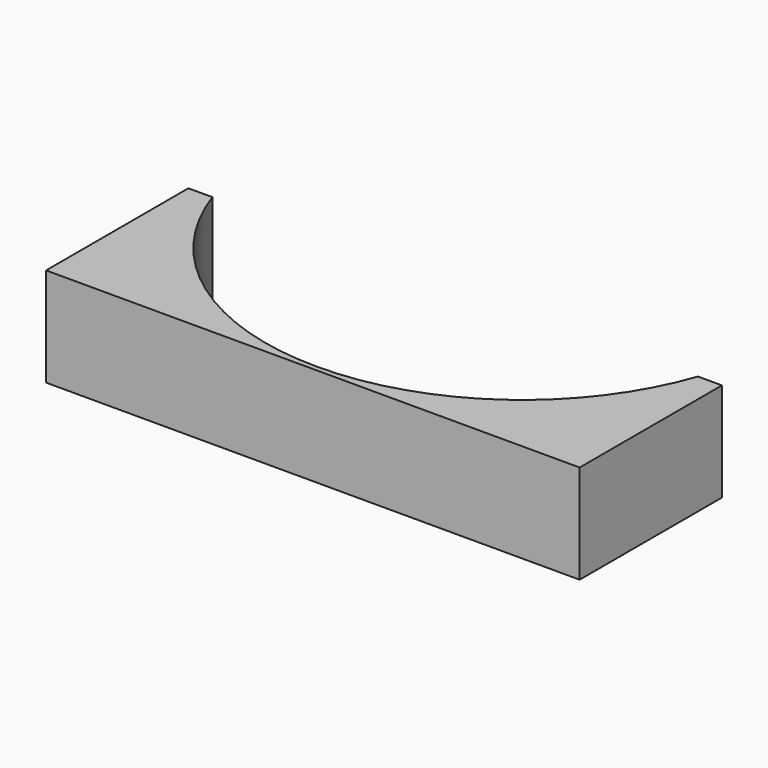
from build123d import *

# Parameters (mm, degrees)
CYLINDER131_R               = 1.5
CYLINDER131_DEPTH           = 4
CYLINDER129_R               = 1.5
CYLINDER129_DEPTH           = 100
BOX043_W                    = 2
BOX043_H                    = 6
BOX043_DEPTH                = 6
COMPOUND160_PLACEMENT_ANGLE = 90
CYLINDER127_R               = 1.5
CYLINDER127_DEPTH           = 4
CYLINDER130_R               = 1.5
CYLINDER130_DEPTH           = 100
BOX042_W                    = 2
BOX042_H                    = 6
BOX042_DEPTH                = 6
COMPOUND161_PLACEMENT_ANGLE = 90
CYLINDER128_R               = 52
CYLINDER128_DEPTH           = 20
BOX044_W                    = 108
BOX044_H                    = 36
BOX044_DEPTH                = 20


with BuildPart() as obj1:
    # Cylinder131 → Cylinder131 (new body)
    with BuildSketch(Plane(origin=(-4, 3, 3), x_dir=(0, 0, -1), z_dir=(1, 0, 0))):
        Circle(CYLINDER131_R)
    extrude(amount=CYLINDER131_DEPTH)


with BuildPart() as obj2:
    # Cylinder129 → Cylinder129 (new body)
    with BuildSketch(Plane(origin=(2, 3, 3), x_dir=(0, 0, -1), z_dir=(1, 0, 0))):
        Circle(CYLINDER129_R)
    extrude(amount=CYLINDER129_DEPTH)


with BuildPart() as compound160:
    # Box043 → Box043 (new body)
    with BuildSketch(Plane.XY):
        with Locations((1, 3)):
            Rectangle(BOX043_W, BOX043_H)
    extrude(amount=BOX043_DEPTH)

    # Compound160: union obj1, obj2
    add(obj1.part)
    add(obj2.part)


with BuildPart() as compound160_1:
    # Compound160 placement: moved
    add(compound160.part.moved(Location((-54, 166, 27))).rotate(Axis((-54, 166, 27), (0, 0, -1)), COMPOUND160_PLACEMENT_ANGLE))


with BuildPart() as obj3:
    # Cylinder127 → Cylinder127 (new body)
    with BuildSketch(Plane(origin=(-4, 3, 3), x_dir=(0, 0, -1), z_dir=(1, 0, 0))):
        Circle(CYLINDER127_R)
    extrude(amount=CYLINDER127_DEPTH)


with BuildPart() as obj4:
    # Cylinder130 → Cylinder130 (new body)
    with BuildSketch(Plane(origin=(2, 3, 3), x_dir=(0, 0, -1), z_dir=(1, 0, 0))):
        Circle(CYLINDER130_R)
    extrude(amount=CYLINDER130_DEPTH)


with BuildPart() as fusion005:
    # Box042 → Box042 (new body)
    with BuildSketch(Plane.XY):
        with Locations((1, 3)):
            Rectangle(BOX042_W, BOX042_H)
    extrude(amount=BOX042_DEPTH)

    # Compound161: union obj3, obj4
    add(obj3.part)
    add(obj4.part)


with BuildPart() as fusion005_1:
    # Compound161 placement: moved
    add(fusion005.part.moved(Location((48, 166, 27))).rotate(Axis((48, 166, 27), (0, 0, -1)), COMPOUND161_PLACEMENT_ANGLE))

    # Fusion005: union Compound160
    add(compound160_1.part)


with BuildPart() as obj5:
    # Cylinder128 → Cylinder128 (new body)
    with BuildSketch(Plane.XY.offset(20)):
        Circle(CYLINDER128_R)
    extrude(amount=CYLINDER128_DEPTH)


with BuildPart() as cut060:
    # Box044 → Box044 (new body)
    with BuildSketch(Plane(origin=(-54, -53, 20), x_dir=(1, 0, 0), z_dir=(0, 0, 1))):
        with Locations((54, 18)):
            Rectangle(BOX044_W, BOX044_H)
    extrude(amount=BOX044_DEPTH)

    # Cut061: cut obj5
    add(obj5.part, mode=Mode.SUBTRACT)

    # Cut060: cut Fusion005
    add(fusion005_1.part, mode=Mode.SUBTRACT)


with BuildPart() as cut060_1:
    # Cut060 placement: moved
    add(cut060.part.moved(Location((0, 0, -20))))


solid = cut060_1.part
